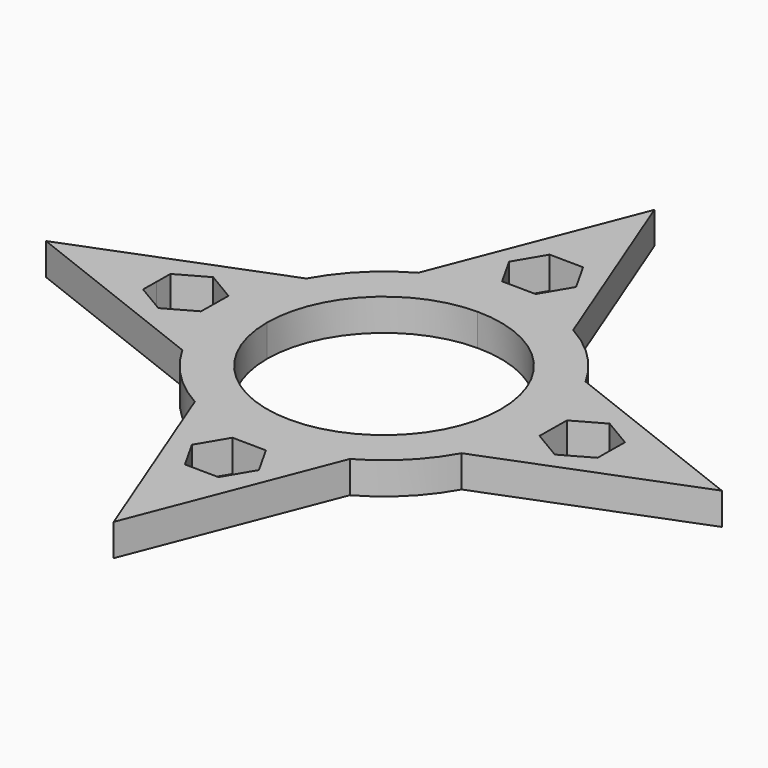
from build123d import *

# Parameters (mm, degrees)
F1_DEPTH = 3


with BuildPart() as f1:
    # F0 (on Top) → F1 (new body)
    with BuildSketch(Plane.XY):
        with BuildLine():
            ThreePointArc((-13.115101, 7.279707), (-14.521131, 3.759886), (-15, 0))
            Line((-15, 0), (-11, 0))
            ThreePointArc((-11, 0), (-7.778175, 7.778175), (0, 11))
            ThreePointArc((0, 11), (7.778175, 7.778175), (11, 0))
            Line((11, 0), (15, 0))
            ThreePointArc((15, 0), (14.521131, 3.759886), (13.115101, 7.279707))
            ThreePointArc((13.115101, 7.279707), (10.606602, 10.606602), (7.279707, 13.115101))
            ThreePointArc((7.279707, 13.115101), (3.759886, 14.521131), (0, 15))
            ThreePointArc((0, 15), (-3.759886, 14.521131), (-7.279707, 13.115101))
            ThreePointArc((-7.279707, 13.115101), (-10.606602, 10.606602), (-13.115101, 7.279707))
        make_face()
        with BuildLine():
            ThreePointArc((-13.115101, -7.279707), (-14.521131, -3.759886), (-15, 0))
            Line((-15, 0), (-15.871926, 0))
            Line((-15.871926, 0), (-15.890621, -1.619352))
            Line((-15.890621, -1.619352), (-18.658765, -3.175215))
            Line((-18.658765, -3.175215), (-21.390254, -1.555863))
            Line((-21.390254, -1.555863), (-21.372293, 0))
            Line((-21.372293, 0), (-31.743194, 0))
            Line((-31.743194, 0), (-13.115101, -7.279707))
        make_face()
        with BuildLine():
            Line((-15.871926, 0), (-15, 0))
            ThreePointArc((-15, 0), (-14.521131, 3.759886), (-13.115101, 7.279707))
            Line((-13.115101, 7.279707), (-31.743194, 0))
            Line((-31.743194, 0), (-21.372293, 0))
            Line((-21.372293, 0), (-21.353599, 1.619352))
            Line((-21.353599, 1.619352), (-18.585454, 3.175215))
            Line((-18.585454, 3.175215), (-15.853965, 1.555863))
            Line((-15.853965, 1.555863), (-15.871926, 0))
        make_face()
        with BuildLine():
            Line((-11, 0), (-15, 0))
            ThreePointArc((-15, 0), (-14.521131, -3.759886), (-13.115101, -7.279707))
            ThreePointArc((-13.115101, -7.279707), (-10.606602, -10.606602), (-7.279707, -13.115101))
            ThreePointArc((-7.279707, -13.115101), (-3.759886, -14.521131), (0, -15))
            ThreePointArc((0, -15), (3.759886, -14.521131), (7.279707, -13.115101))
            ThreePointArc((7.279707, -13.115101), (10.606602, -10.606602), (13.115101, -7.279707))
            ThreePointArc((13.115101, -7.279707), (14.521131, -3.759886), (15, 0))
            Line((15, 0), (11, 0))
            ThreePointArc((11, 0), (7.778175, -7.778175), (0, -11))
            ThreePointArc((0, -11), (-7.778175, -7.778175), (-11, 0))
        make_face()
        with BuildLine():
            Line((0, 31.743194), (-7.279707, 13.115101))
            ThreePointArc((-7.279707, 13.115101), (-3.759886, 14.521131), (0, 15))
            ThreePointArc((0, 15), (3.759886, 14.521131), (7.279707, 13.115101))
            Line((7.279707, 13.115101), (0, 31.743194))
        make_face()
        Polygon((-1.619352, 15.890621), (-3.175215, 18.658765), (-1.555863, 21.390254), (1.619352, 21.353599), (3.175215, 18.585454), (1.555863, 15.853965), align=None, mode=Mode.SUBTRACT)
        with BuildLine():
            ThreePointArc((0, -15), (-3.759886, -14.521131), (-7.279707, -13.115101))
            Line((-7.279707, -13.115101), (0, -31.743194))
            Line((0, -31.743194), (7.279707, -13.115101))
            ThreePointArc((7.279707, -13.115101), (3.759886, -14.521131), (0, -15))
        make_face()
        Polygon((1.555863, -21.390254), (-1.619352, -21.353599), (-3.175215, -18.585454), (-1.555863, -15.853965), (1.619352, -15.890621), (3.175215, -18.658765), align=None, mode=Mode.SUBTRACT)
        with BuildLine():
            ThreePointArc((13.115101, 7.279707), (14.521131, 3.759886), (15, 0))
            ThreePointArc((15, 0), (14.521131, -3.759886), (13.115101, -7.279707))
            Line((13.115101, -7.279707), (31.743194, 0))
            Line((31.743194, 0), (13.115101, 7.279707))
        make_face()
        Polygon((21.390254, 1.555863), (21.353599, -1.619352), (18.585454, -3.175215), (15.853965, -1.555863), (15.890621, 1.619352), (18.658765, 3.175215), align=None, mode=Mode.SUBTRACT)
    extrude(amount=F1_DEPTH)


solid = f1.part
